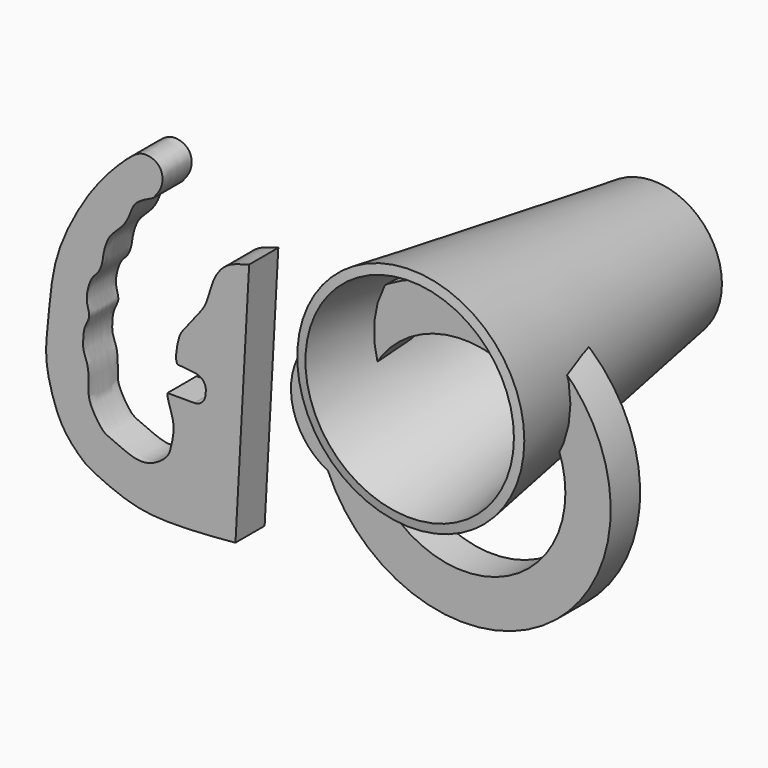
from build123d import *

# Parameters (mm, degrees)
F1_DEPTH = 9.7
F3_DEPTH = 9.8


with BuildPart() as f1:
    # F0 (on Front) → F1 (new body)
    with BuildSketch(Plane.XZ):
        with BuildLine():
            add(Edge.make_bspline(
                [(-31.3333757222, 18.640736118), (-33.1727114934, 17.7970882373), (-36.5195896179, 16.2619761166), (-37.4930333972, 12.6593919083), (-39.0461997848, 9.8225244734), (-41.199096824, 7.7983253789), (-43.5279457338, 5.5070060521), (-44.6932097972, 1.2910279279), (-44.8023187617, -0.7320528463), (-45.7226739926, -3.5507546568), (-47.818913695, -5.1364697155), (-48.8855289473, -8.5466859176), (-49.2313550672, -11.3085916163), (-48.3313471287, -13.9227831386), (-48.4364258876, -15.2981476849), (-49.7662537849, -17.6085673265), (-50.0297023673, -20.2086327507), (-50.1138183157, -23.1865738702), (-48.8015930461, -25.718500989), (-48.4702763243, -29.2708843284), (-48.6730976636, -32.683622895), (-48.1676072655, -35.3660777048), (-44.955975234, -40.58963588), (-42.3126905256, -41.3996416494), (-35.8375686831, -44.6716292293), (-31.1358783453, -43.7289355521), (-27.2062712896, -40.7339383547), (-26.5967169386, -37.8372490888), (-25.1728106078, -32.2414555896), (-27.6547270088, -27.4768753156), (-27.5832777476, -25.8288142986)],
                knots=[0, 0, 0, 0, 0.045108961, 0.0807133912, 0.1147764125, 0.1473315955, 0.1820888149, 0.2212889935, 0.2491982273, 0.2808231888, 0.3116260211, 0.3470658135, 0.3795614264, 0.4104341468, 0.4325162003, 0.4629331141, 0.4943221321, 0.5267818494, 0.5587886683, 0.5949259788, 0.6297804219, 0.66204662, 0.7076303924, 0.7403389393, 0.7904583761, 0.832388421, 0.8729395212, 0.9051567969, 0.9507102456, 1, 1, 1, 1], degree=3))
            add(Edge.make_bspline(
                [(-31.3333757222, 18.640736118), (-30.4320062638, 19.7634507528), (-28.6323099317, 22.0050902843), (-28.8956366853, 27.0312636271), (-33.9816007458, 28.8533108881), (-38.1662001082, 25.9656392825), (-45.4070016126, 18.5001059196), (-51.0145285467, 10.3558541003), (-58.1193093352, -3.4994420412), (-59.1238821243, -18.2996662283), (-60.4216558617, -27.8747205918), (-58.1528360789, -37.0869457023), (-55.3255862565, -43.8607247304), (-50.4412371886, -48.7584016873), (-47.9995583557, -50.4987335473), (-39.4714279444, -54.3668608816), (-31.4752169576, -56.1975757662), (-19.3033548338, -55.9135783329), (-12.6463619043, -55.309059194), (-9.4669703394, -55.020339787)],
                knots=[0, 0, 0, 0, 0.0428022408, 0.0854600021, 0.1284903685, 0.173642991, 0.2397096875, 0.3060347723, 0.3873309193, 0.4672400432, 0.5315621695, 0.5942474121, 0.651253375, 0.7037522579, 0.7402243089, 0.8017402131, 0.8629266933, 0.934533547, 1, 1, 1, 1], degree=3))
            Line((-9.4669703394, -55.020339787), (-5.8225695975, 11.3519374281))
            add(Edge.make_bspline(
                [(-5.8225695975, 11.3519374281), (-8.0224233901, 10.7776771968), (-12.2777890695, 9.6668364273), (-15.6737325994, 4.7076146732), (-16.8173529684, -1.0679139978), (-19.0518799713, -4.3693484203), (-22.6667898168, -8.8805515103), (-24.6598588857, -11.0671324534), (-25.5351410957, -17.1104490945), (-25.0717973814, -17.9763948929), (-24.9280650169, -18.245017156)],
                knots=[0, 0, 0, 0, 0.1503161894, 0.2907694846, 0.4314216854, 0.5509335782, 0.6892102863, 0.7959418223, 0.9366997685, 1, 1, 1, 1], degree=3))
            Line((-24.9280650169, -18.245017156), (-20.0190857381, -18.7954644344))
            ThreePointArc((-20.0190857381, -18.7954644344), (-18.0449371971, -19.8607745151), (-17.3615042068, -21.9973763447))
            Line((-17.3615042068, -21.9973763447), (-17.4390722894, -23.049410144))
            ThreePointArc((-17.4390722894, -23.049410144), (-18.3891119415, -25.0267437261), (-20.4309508753, -25.8288142986))
            Line((-20.4309508753, -25.8288142986), (-27.5832777476, -25.8288142986))
        make_face()
    extrude(amount=F1_DEPTH)


with BuildPart() as f3:
    # F2 (on face) → F3 (new body)
    with BuildSketch(Plane(origin=(0, 0, 0), x_dir=(-1, 0, 0), z_dir=(0, 1, 0))):
        with BuildLine():
            ThreePointArc((-7.4089076616, -36.6535794328), (2.4457493392, -20.1391219102), (-8.207463032, -4.1281682208))
            ThreePointArc((-8.207463032, -4.1281682208), (-82.6478852009, -22.2283185204), (-7.4089076616, -36.6535794328))
        make_face()
        with BuildLine():
            ThreePointArc((-16.6102497281, -25.166567415), (-70.5937303007, -21.2662150201), (-16.6102498634, -17.3658607528))
            Line((-16.6102498634, -17.3658607528), (-7.9864403233, -17.3658607528))
            Line((-7.9864403233, -17.3658607528), (-7.9864403233, -25.166567415))
            Line((-7.9864403233, -25.166567415), (-16.6102497281, -25.166567415))
        make_face(mode=Mode.SUBTRACT)
    extrude(amount=F3_DEPTH)


with BuildPart() as f5:
    # F4 (on Top) → F5 (revolve)
    with BuildSketch(Plane.XY):
        Polygon((44.5049665868, 61.9413331151), (44.5049665868, 59.4413360975), (60.5511968882, 59.4413360975), (72.2572165055, -19.2033386409), (74.7299711378, -18.8352766668), (62.7066195011, 61.9413331151), align=None)
    revolve(axis=Axis((44.5049665868, 9.8437499255, 0), (0, 1, 0)))


solid = Compound([f1.part, f3.part, f5.part])
